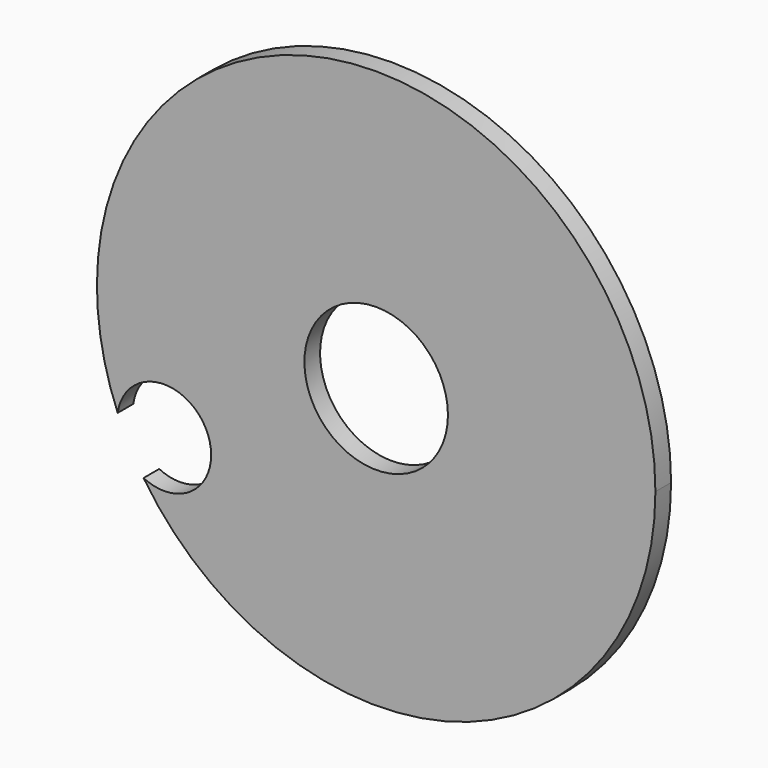
from build123d import *

# Parameters (mm, degrees)
F1_DEPTH = 15


with BuildPart() as f1:
    # F0 (on Front) → F1 (new body)
    with BuildSketch(Plane.XZ):
        with BuildLine():
            ThreePointArc((-178.283446, -118.368124), (61.819667, -204.876374), (214, 0))
            ThreePointArc((214, 0), (0, 214), (-214, 0))
            ThreePointArc((-214, 0), (-209.9897, -41.235008), (-198.109104, -80.924551))
            ThreePointArc((-198.109104, -80.924551), (-159.915195, -50.116973), (-126.472397, -86.026035))
            ThreePointArc((-126.472397, -86.026035), (-143.409314, -116.564517), (-178.283446, -118.368124))
        make_face()
        with BuildLine():
            ThreePointArc((0, 55), (38.890873, 38.890873), (55, 0))
            ThreePointArc((55, 0), (-38.890873, -38.890873), (0, 55))
        make_face(mode=Mode.SUBTRACT)
    extrude(amount=F1_DEPTH)


solid = f1.part
